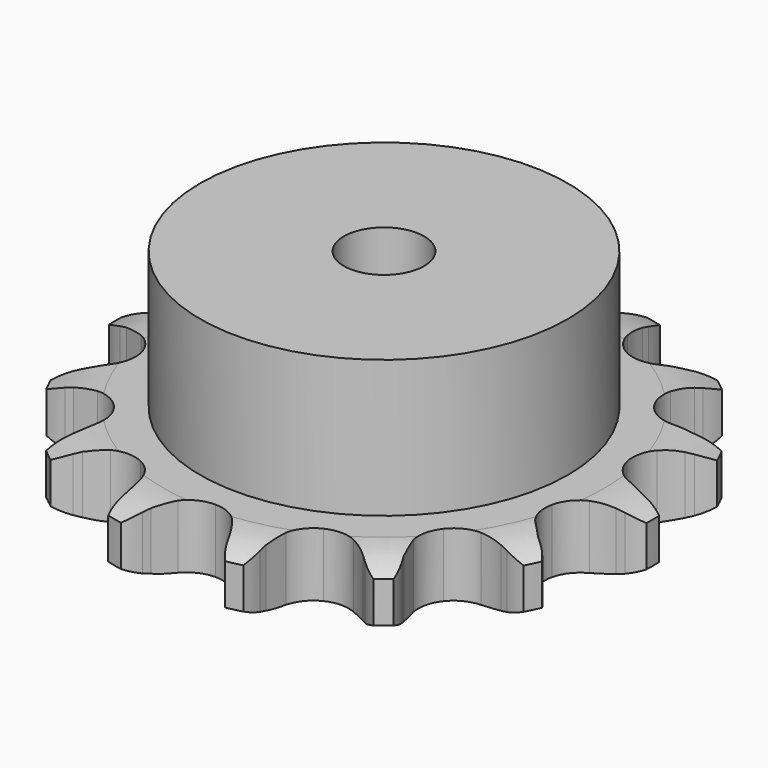
from build123d import *

# Parameters (mm, degrees)
PAD_DEPTH         = 11.1
SKETCH001_R       = 32
PAD001_DEPTH      = 35
SKETCH002_R       = 7
POCKET_DEPTH      = 0.001
POCKET_DEPTH_BACK = -35.001


with BuildPart() as part:
    # Sprocket → Pad (new body)
    with BuildSketch(Plane.XY):
        with BuildLine():
            ThreePointArc((-10.82608, 47.432157), (-8.804038, 45.633965), (-7.331265, 43.363922))
            Line((-7.331265, 43.363922), (-6.775639, 42.187726))
            ThreePointArc((-6.775639, 42.187726), (-5.849087, 40.50134), (-4.723923, 38.940442))
            ThreePointArc((-4.723923, 38.940442), (-2.613784, 37.289701), (0, 36.701686))
            ThreePointArc((0, 36.701686), (2.613784, 37.289701), (4.723923, 38.940442))
            ThreePointArc((4.723923, 38.940442), (5.849087, 40.50134), (6.775639, 42.187726))
            Line((6.775639, 42.187726), (7.331265, 43.363922))
            ThreePointArc((7.331265, 43.363922), (8.804038, 45.633965), (10.82608, 47.432157))
            ThreePointArc((10.82608, 47.432157), (11.867671, 44.93471), (12.209659, 42.25046))
            Line((12.209659, 42.25046), (12.199929, 40.949668))
            ThreePointArc((12.199929, 40.949668), (12.303027, 39.02827), (12.639517, 37.133759))
            ThreePointArc((12.639517, 37.133759), (13.824457, 34.730938), (15.924265, 33.067077))
            ThreePointArc((15.924265, 33.067077), (18.534333, 32.462781), (21.151732, 33.034492))
            Line((21.151732, 33.034492), (24.409208, 35.069989))
            ThreePointArc((24.409208, 35.069989), (24.906225, 35.489743), (25.420142, 35.888627))
            ThreePointArc((25.420142, 35.888627), (27.731999, 37.294853), (30.334003, 38.037637))
            ThreePointArc((30.334003, 38.037637), (30.188842, 35.335586), (29.33231, 32.768777))
            Line((29.33231, 32.768777), (28.759151, 31.601025))
            ThreePointArc((28.759151, 31.601025), (28.018376, 29.825173), (27.499545, 27.97228))
            ThreePointArc((27.499545, 27.97228), (27.524594, 25.293287), (28.694534, 22.883127))
            ThreePointArc((28.694534, 22.883127), (30.78393, 21.206209), (33.390181, 20.585656))
            Line((33.390181, 20.585656), (37.208234, 21.00621))
            ThreePointArc((37.208234, 21.00621), (37.838155, 21.168748), (38.474248, 21.305149))
            ThreePointArc((38.474248, 21.305149), (41.167298, 21.569038), (43.833905, 21.109296))
            ThreePointArc((43.833905, 21.109296), (42.530743, 18.737815), (40.645338, 16.796835))
            Line((40.645338, 16.796835), (39.622271, 15.993411))
            ThreePointArc((39.622271, 15.993411), (38.184342, 14.714834), (36.912952, 13.270548))
            ThreePointArc((36.912952, 13.270548), (35.773149, 10.84599), (35.781499, 8.166894))
            ThreePointArc((35.781499, 8.166894), (36.936392, 5.749488), (39.015295, 4.059579))
            Line((39.015295, 4.059579), (42.637713, 2.781893))
            ThreePointArc((42.637713, 2.781893), (43.275776, 2.655022), (43.908058, 2.501926))
            ThreePointArc((43.908058, 2.501926), (46.448909, 1.57121), (48.651964, 0))
            ThreePointArc((48.651964, 0), (46.448909, -1.57121), (43.908058, -2.501926))
            Line((43.908058, -2.501926), (42.637713, -2.781893))
            ThreePointArc((42.637713, -2.781893), (40.787431, -3.309958), (39.015295, -4.059579))
            ThreePointArc((39.015295, -4.059579), (36.936392, -5.749488), (35.781499, -8.166894))
            ThreePointArc((35.781499, -8.166894), (35.773149, -10.84599), (36.912952, -13.270548))
            Line((36.912952, -13.270548), (39.622271, -15.993411))
            ThreePointArc((39.622271, -15.993411), (40.142098, -16.384563), (40.645338, -16.796835))
            ThreePointArc((40.645338, -16.796835), (42.530743, -18.737815), (43.833905, -21.109296))
            ThreePointArc((43.833905, -21.109296), (41.167298, -21.569038), (38.474248, -21.305149))
            Line((38.474248, -21.305149), (37.208234, -21.00621))
            ThreePointArc((37.208234, -21.00621), (35.312069, -20.679172), (33.390181, -20.585656))
            ThreePointArc((33.390181, -20.585656), (30.78393, -21.206209), (28.694534, -22.883127))
            ThreePointArc((28.694534, -22.883127), (27.524594, -25.293287), (27.499545, -27.97228))
            Line((27.499545, -27.97228), (28.759151, -31.601025))
            ThreePointArc((28.759151, -31.601025), (29.057785, -32.178984), (29.33231, -32.768777))
            ThreePointArc((29.33231, -32.768777), (30.188842, -35.335586), (30.334003, -38.037637))
            ThreePointArc((30.334003, -38.037637), (27.731999, -37.294853), (25.420142, -35.888627))
            Line((25.420142, -35.888627), (24.409208, -35.069989))
            ThreePointArc((24.409208, -35.069989), (22.842718, -33.952622), (21.151732, -33.034492))
            ThreePointArc((21.151732, -33.034492), (18.534333, -32.462781), (15.924265, -33.067077))
            ThreePointArc((15.924265, -33.067077), (13.824457, -34.730938), (12.639517, -37.133759))
            Line((12.639517, -37.133759), (12.199929, -40.949668))
            ThreePointArc((12.199929, -40.949668), (12.218221, -41.599963), (12.209659, -42.25046))
            ThreePointArc((12.209659, -42.25046), (11.867671, -44.93471), (10.82608, -47.432157))
            ThreePointArc((10.82608, -47.432157), (8.804038, -45.633965), (7.331265, -43.363922))
            Line((7.331265, -43.363922), (6.775639, -42.187726))
            ThreePointArc((6.775639, -42.187726), (5.849087, -40.50134), (4.723923, -38.940442))
            ThreePointArc((4.723923, -38.940442), (2.613784, -37.289701), (0, -36.701686))
            ThreePointArc((0, -36.701686), (-2.613784, -37.289701), (-4.723923, -38.940442))
            Line((-4.723923, -38.940442), (-6.775639, -42.187726))
            ThreePointArc((-6.775639, -42.187726), (-7.041311, -42.78156), (-7.331265, -43.363922))
            ThreePointArc((-7.331265, -43.363922), (-8.804038, -45.633965), (-10.82608, -47.432157))
            ThreePointArc((-10.82608, -47.432157), (-11.867671, -44.93471), (-12.209659, -42.25046))
            Line((-12.209659, -42.25046), (-12.199929, -40.949668))
            ThreePointArc((-12.199929, -40.949668), (-12.303027, -39.02827), (-12.639517, -37.133759))
            ThreePointArc((-12.639517, -37.133759), (-13.824457, -34.730938), (-15.924265, -33.067077))
            ThreePointArc((-15.924265, -33.067077), (-18.534333, -32.462781), (-21.151732, -33.034492))
            Line((-21.151732, -33.034492), (-24.409208, -35.069989))
            ThreePointArc((-24.409208, -35.069989), (-24.906225, -35.489743), (-25.420142, -35.888627))
            ThreePointArc((-25.420142, -35.888627), (-27.731999, -37.294853), (-30.334003, -38.037637))
            ThreePointArc((-30.334003, -38.037637), (-30.188842, -35.335586), (-29.33231, -32.768777))
            Line((-29.33231, -32.768777), (-28.759151, -31.601025))
            ThreePointArc((-28.759151, -31.601025), (-28.018376, -29.825173), (-27.499545, -27.97228))
            ThreePointArc((-27.499545, -27.97228), (-27.524594, -25.293287), (-28.694534, -22.883127))
            ThreePointArc((-28.694534, -22.883127), (-30.78393, -21.206209), (-33.390181, -20.585656))
            Line((-33.390181, -20.585656), (-37.208234, -21.00621))
            ThreePointArc((-37.208234, -21.00621), (-37.838155, -21.168748), (-38.474248, -21.305149))
            ThreePointArc((-38.474248, -21.305149), (-41.167298, -21.569038), (-43.833905, -21.109296))
            ThreePointArc((-43.833905, -21.109296), (-42.530743, -18.737815), (-40.645338, -16.796835))
            Line((-40.645338, -16.796835), (-39.622271, -15.993411))
            ThreePointArc((-39.622271, -15.993411), (-38.184342, -14.714834), (-36.912952, -13.270548))
            ThreePointArc((-36.912952, -13.270548), (-35.773149, -10.84599), (-35.781499, -8.166894))
            ThreePointArc((-35.781499, -8.166894), (-36.936392, -5.749488), (-39.015295, -4.059579))
            Line((-39.015295, -4.059579), (-42.637713, -2.781893))
            ThreePointArc((-42.637713, -2.781893), (-43.275776, -2.655022), (-43.908058, -2.501926))
            ThreePointArc((-43.908058, -2.501926), (-46.448909, -1.57121), (-48.651964, 0))
            ThreePointArc((-48.651964, 0), (-46.448909, 1.57121), (-43.908058, 2.501926))
            Line((-43.908058, 2.501926), (-42.637713, 2.781893))
            ThreePointArc((-42.637713, 2.781893), (-40.787431, 3.309958), (-39.015295, 4.059579))
            ThreePointArc((-39.015295, 4.059579), (-36.936392, 5.749488), (-35.781499, 8.166894))
            ThreePointArc((-35.781499, 8.166894), (-35.773149, 10.84599), (-36.912952, 13.270548))
            Line((-36.912952, 13.270548), (-39.622271, 15.993411))
            ThreePointArc((-39.622271, 15.993411), (-40.142098, 16.384563), (-40.645338, 16.796835))
            ThreePointArc((-40.645338, 16.796835), (-42.530743, 18.737815), (-43.833905, 21.109296))
            ThreePointArc((-43.833905, 21.109296), (-41.167298, 21.569038), (-38.474248, 21.305149))
            Line((-38.474248, 21.305149), (-37.208234, 21.00621))
            ThreePointArc((-37.208234, 21.00621), (-35.312069, 20.679172), (-33.390181, 20.585656))
            ThreePointArc((-33.390181, 20.585656), (-30.78393, 21.206209), (-28.694534, 22.883127))
            ThreePointArc((-28.694534, 22.883127), (-27.524594, 25.293287), (-27.499545, 27.97228))
            Line((-27.499545, 27.97228), (-28.759151, 31.601025))
            ThreePointArc((-28.759151, 31.601025), (-29.057785, 32.178984), (-29.33231, 32.768777))
            ThreePointArc((-29.33231, 32.768777), (-30.188842, 35.335586), (-30.334003, 38.037637))
            ThreePointArc((-30.334003, 38.037637), (-27.731999, 37.294853), (-25.420142, 35.888627))
            Line((-25.420142, 35.888627), (-24.409208, 35.069989))
            ThreePointArc((-24.409208, 35.069989), (-22.842718, 33.952622), (-21.151732, 33.034492))
            ThreePointArc((-21.151732, 33.034492), (-18.534333, 32.462781), (-15.924265, 33.067077))
            ThreePointArc((-15.924265, 33.067077), (-13.824457, 34.730938), (-12.639517, 37.133759))
            Line((-12.639517, 37.133759), (-12.199929, 40.949668))
            ThreePointArc((-12.199929, 40.949668), (-12.218221, 41.599963), (-12.209659, 42.25046))
            ThreePointArc((-12.209659, 42.25046), (-11.867671, 44.93471), (-10.82608, 47.432157))
        make_face()
    extrude(amount=PAD_DEPTH)

    # Sketch → Groove (revolve, cut)
    with BuildSketch(Plane.XZ):
        with BuildLine():
            Line((38.314719, 0), (46.8, 0))
            Line((55.285281, 0), (46.8, 0))
            Line((55.285281, 11.1), (55.285281, 0))
            Line((46.8, 11.1), (55.285281, 11.1))
            Line((38.314719, 11.1), (46.8, 11.1))
            ThreePointArc((46.8, 9.1), (42.673618, 10.593242), (38.314719, 11.1))
            Line((46.8, 2), (46.8, 9.1))
            ThreePointArc((38.314719, 0), (42.673618, 0.506758), (46.8, 2))
        make_face()
    revolve(axis=Axis((0, 0, 0), (0, 0, 1)), mode=Mode.SUBTRACT)

    # Sketch001 → Pad001 (join)
    with BuildSketch(Plane.XY):
        Circle(SKETCH001_R)
    extrude(amount=PAD001_DEPTH)

    # Sketch002 → Pocket (cut, two sides)
    with BuildSketch(Plane.XY) as pocket_sk:
        Circle(SKETCH002_R)
    extrude(amount=-POCKET_DEPTH, mode=Mode.SUBTRACT)
    extrude(pocket_sk.sketch, amount=-POCKET_DEPTH_BACK, mode=Mode.SUBTRACT)


solid = part.part
